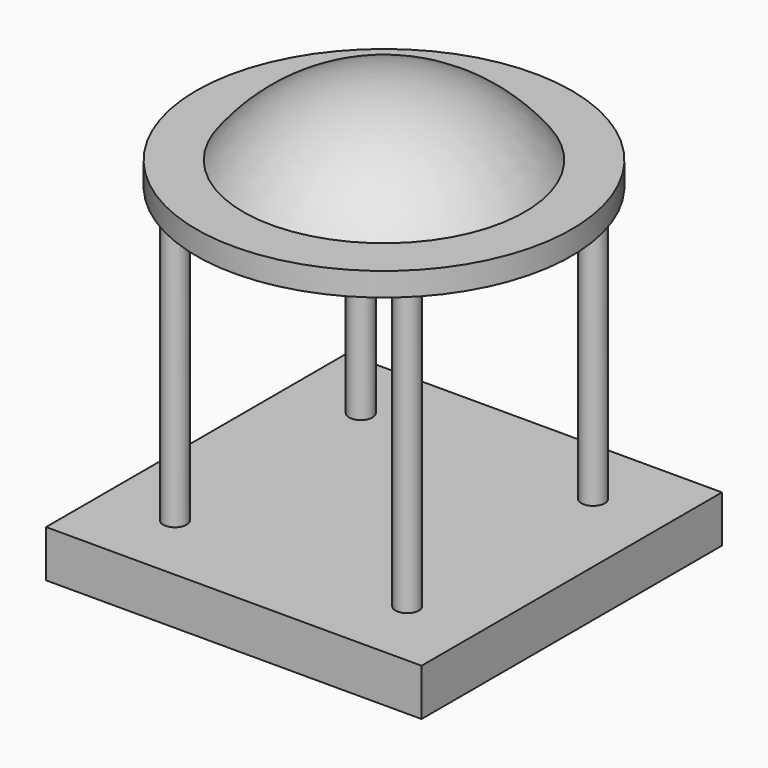
from build123d import *

# Parameters (mm, degrees)
F0_W     = 203.2
F0_H     = 203.2
F0_R     = 6.35
F1_DEPTH = 25.4
F4_DEPTH = 179.325295


with BuildPart() as f1:
    # F0 (on Top) → F1 (new body)
    with BuildSketch(Plane.XY):
        Rectangle(F0_W, F0_H)
        with Locations((-62.861793, -62.861793)):
            Circle(F0_R, mode=Mode.SUBTRACT)
        with Locations((62.861793, -62.861793)):
            Circle(F0_R, mode=Mode.SUBTRACT)
        with Locations((-62.861793, 62.861793)):
            Circle(F0_R, mode=Mode.SUBTRACT)
        with Locations((62.861793, 62.861793)):
            Circle(F0_R, mode=Mode.SUBTRACT)
    extrude(amount=F1_DEPTH)


with BuildPart() as f3:
    # F2 (on Front) → F3 (revolve)
    with BuildSketch(Plane.XZ):
        with BuildLine():
            Line((-101.6, 179.325295), (0, 179.325295))
            Line((0, 179.325295), (0, 230.125295))
            ThreePointArc((0, 230.125295), (-42.597095, 220.069485), (-76.2, 192.025295))
            Line((-76.2, 192.025295), (-101.6, 192.025295))
            Line((-101.6, 192.025295), (-101.6, 179.325295))
        make_face()
    revolve(axis=Axis((0, 0, 204.725295), (0, 0, 1)))


with BuildPart() as f4:
    # F0 (on Top) → F4 (new body, through all)
    with BuildSketch(Plane.XY):
        with Locations((62.861793, -62.861793)):
            Circle(F0_R)
        with Locations((62.861793, 62.861793)):
            Circle(F0_R)
        with Locations((-62.861793, 62.861793)):
            Circle(F0_R)
        with Locations((-62.861793, -62.861793)):
            Circle(F0_R)
    extrude(amount=F4_DEPTH)


solid = Compound([f1.part, f3.part, f4.part])
